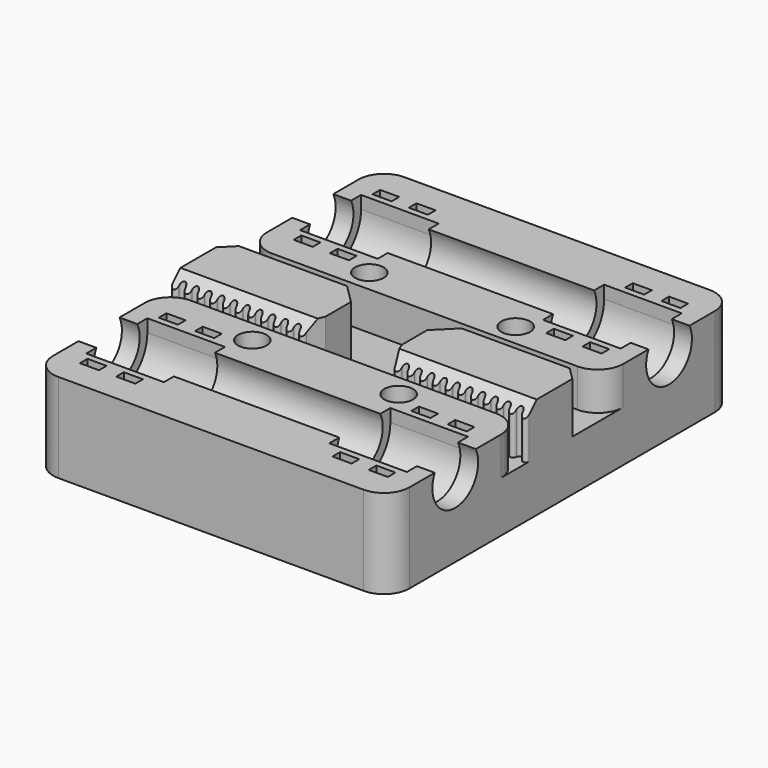
from build123d import *

# Parameters (mm, degrees)
BOX_W           = 28
BOX_H           = 34
BOX_DEPTH       = 16
POCKET_DEPTH    = 15
PAD_DEPTH       = 2.8
SKETCH002_R     = 4.5
POCKET001_DEPTH = 28.001
SKETCH003_W     = 3
SKETCH003_H     = 1.5
POCKET002_DEPTH = 16.001
SKETCH004_W     = 3
SKETCH004_H     = 17
POCKET005_DEPTH = 2
SKETCH005_R     = 2.25
POCKET006_DEPTH = 16.001
SKETCH006_W     = 28
SKETCH006_H     = 30
POCKET007_DEPTH = 2
SKETCH007_W     = 28
SKETCH007_H     = 4
POCKET008_DEPTH = 6
SKETCH008_W     = 6
SKETCH008_H     = 4
POCKET009_DEPTH = 8
PAD001_DEPTH    = 8
POCKET010_DEPTH = 28.001
FILLET_R        = 4
FILLET001_R     = 4
FILLET002_R     = 4
FILLET003_R     = 4
FILLET004_R     = 3
FILLET005_R     = 3
FILLET006_R     = 3
FILLET007_R     = 3
FILLET008_R     = 3
FILLET009_R     = 3
FILLET010_R     = 3
FILLET011_R     = 3
CHAMFER_SIZE    = 2
CHAMFER001_SIZE = 3


with BuildPart() as pocket009:
    # Box → Box (new body)
    with BuildSketch(Plane.XY):
        with Locations((14, 17)):
            Rectangle(BOX_W, BOX_H)
    extrude(amount=BOX_DEPTH)

    # Sketch → Pocket (cut)
    with BuildSketch(Plane.YZ.offset(28)):
        with BuildLine():
            Line((15, 16), (27, 16))
            Line((27, 16), (27, 12))
            ThreePointArc((15, 12), (21, 6), (27, 12))
            Line((15, 12), (15, 16))
        make_face()
    extrude(amount=-POCKET_DEPTH, mode=Mode.SUBTRACT)

    # Sketch001 → Pad (new body)
    with BuildSketch(Plane.YZ.offset(28)):
        with BuildLine():
            ThreePointArc((15, 12), (21, 6), (27, 12))
            Line((27, 16), (27, 12))
            Line((15, 16), (27, 16))
            Line((15, 12), (15, 16))
        make_face()
    extrude(amount=-PAD_DEPTH)

    # Sketch002 → Pocket001 (cut, through all)
    with BuildSketch(Plane.YZ.offset(28)):
        with Locations((21, 12)):
            Circle(SKETCH002_R)
    extrude(amount=-POCKET001_DEPTH, mode=Mode.SUBTRACT)

    # Sketch003 → Pocket002 (cut, through all)
    with BuildSketch(Plane.XY.offset(16)):
        with Locations((17, 28.75)):
            Rectangle(SKETCH003_W, SKETCH003_H)
        with Locations((22.7, 28.75)):
            Rectangle(SKETCH003_W, SKETCH003_H)
        with Locations((17, 13.25)):
            Rectangle(SKETCH003_W, SKETCH003_H)
        with Locations((22.7, 13.25)):
            Rectangle(SKETCH003_W, SKETCH003_H)
    extrude(amount=-POCKET002_DEPTH, mode=Mode.SUBTRACT)

    # Sketch004 → Pocket005 (cut)
    with BuildSketch(Plane(origin=(0, 0, 0), x_dir=(1, 0, 0), z_dir=(0, 0, -1))):
        with Locations((17, -21)):
            Rectangle(SKETCH004_W, SKETCH004_H)
        with Locations((22.7, -21)):
            Rectangle(SKETCH004_W, SKETCH004_H)
    extrude(amount=-POCKET005_DEPTH, mode=Mode.SUBTRACT)

    # Sketch005 → Pocket006 (cut, through all)
    with BuildSketch(Plane.XY.offset(16)):
        with Locations((11.5, 11.5)):
            Circle(SKETCH005_R)
    extrude(amount=-POCKET006_DEPTH, mode=Mode.SUBTRACT)

    # Sketch006 → Pocket007 (cut)
    with BuildSketch(Plane.XY.offset(16)):
        with Locations((14, 19)):
            Rectangle(SKETCH006_W, SKETCH006_H)
    extrude(amount=-POCKET007_DEPTH, mode=Mode.SUBTRACT)

    # Sketch007 → Pocket008 (cut)
    with BuildSketch(Plane.XY.offset(14)):
        with Locations((14, 6)):
            Rectangle(SKETCH007_W, SKETCH007_H)
    extrude(amount=-POCKET008_DEPTH, mode=Mode.SUBTRACT)

    # Sketch008 → Pocket009 (cut)
    with BuildSketch(Plane.XY.offset(16)):
        with Locations((3, 2)):
            Rectangle(SKETCH008_W, SKETCH008_H)
    extrude(amount=-POCKET009_DEPTH, mode=Mode.SUBTRACT)


with BuildPart() as chamfer001:
    # Part__Mirroring: instance of Pocket009
    add(pocket009.part.mirror(Plane(origin=(0, 0, 0), x_dir=(1, 0, 0), z_dir=(0, 1, 0))))

    # Sketch009 → Pad001 (new body)
    with BuildSketch(Plane.XY.offset(8)):
        with BuildLine():
            ThreePointArc((7, -6.5), (7.5, -7), (8, -6.5))
            ThreePointArc((9, -6.5), (8.5, -6), (8, -6.5))
            ThreePointArc((9, -6.5), (9.5, -7), (10, -6.5))
            ThreePointArc((11, -6.5), (10.5, -6), (10, -6.5))
            ThreePointArc((11, -6.5), (11.5, -7), (12, -6.5))
            ThreePointArc((13, -6.5), (12.5, -6), (12, -6.5))
            ThreePointArc((13, -6.5), (13.5, -7), (14, -6.5))
            ThreePointArc((15, -6.5), (14.5, -6), (14, -6.5))
            ThreePointArc((15, -6.5), (15.5, -7), (16, -6.5))
            ThreePointArc((17, -6.5), (16.5, -6), (16, -6.5))
            ThreePointArc((17, -6.5), (17.5, -7), (18, -6.5))
            ThreePointArc((19, -6.5), (18.5, -6), (18, -6.5))
            ThreePointArc((19, -6.5), (19.5, -7), (20, -6.5))
            ThreePointArc((21, -6.5), (20.5, -6), (20, -6.5))
            ThreePointArc((21, -6.5), (21.5, -7), (22, -6.5))
            ThreePointArc((23, -6.5), (22.5, -6), (22, -6.5))
            ThreePointArc((23, -6.5), (23.5, -7), (24, -6.5))
            ThreePointArc((25, -6.5), (24.5, -6), (24, -6.5))
            ThreePointArc((25, -6.5), (25.5, -7), (26, -6.5))
            ThreePointArc((27, -6.5), (26.5, -6), (26, -6.5))
            ThreePointArc((27, -6.5), (27.5, -7), (28, -6.5))
            Line((28, -6.5), (28, -4))
            Line((6, -4), (28, -4))
            Line((6, -4), (7, -6.5))
        make_face()
    extrude(amount=PAD001_DEPTH)

    # Sketch010 → Pocket010 (cut, through all)
    with BuildSketch(Plane.YZ.offset(28)):
        Polygon((-7, 14), (-7, 16), (-5, 16), align=None)
    extrude(amount=-POCKET010_DEPTH, mode=Mode.SUBTRACT)

    # Fusion: union Pocket009
    add(pocket009.part)

    # Fillet
    fillet_edges = [chamfer001.edges().sort_by_distance(p)[0] for p in [
        (28, 8, 11),
    ]]
    fillet(fillet_edges, radius=FILLET_R)

    # Fillet001
    fillet001_edges = [chamfer001.edges().sort_by_distance(p)[0] for p in [
        (28, -8, 11),
    ]]
    fillet(fillet001_edges, radius=FILLET001_R)

    # Fillet002
    fillet002_edges = [chamfer001.edges().sort_by_distance(p)[0] for p in [
        (28, 34, 7),
    ]]
    fillet(fillet002_edges, radius=FILLET002_R)

    # Fillet003
    fillet003_edges = [chamfer001.edges().sort_by_distance(p)[0] for p in [
        (28, -34, 7),
    ]]
    fillet(fillet003_edges, radius=FILLET003_R)

    # Fillet004
    fillet004_edges = [chamfer001.edges().sort_by_distance(p)[0] for p in [
        (17, 28, 2),
    ]]
    fillet(fillet004_edges, radius=FILLET004_R)

    # Fillet005
    fillet005_edges = [chamfer001.edges().sort_by_distance(p)[0] for p in [
        (22.7, 28, 2),
    ]]
    fillet(fillet005_edges, radius=FILLET005_R)

    # Fillet006
    fillet006_edges = [chamfer001.edges().sort_by_distance(p)[0] for p in [
        (22.7, 14, 2),
    ]]
    fillet(fillet006_edges, radius=FILLET006_R)

    # Fillet007
    fillet007_edges = [chamfer001.edges().sort_by_distance(p)[0] for p in [
        (17, 14, 2),
    ]]
    fillet(fillet007_edges, radius=FILLET007_R)

    # Fillet008
    fillet008_edges = [chamfer001.edges().sort_by_distance(p)[0] for p in [
        (22.7, -14, 2),
    ]]
    fillet(fillet008_edges, radius=FILLET008_R)

    # Fillet009
    fillet009_edges = [chamfer001.edges().sort_by_distance(p)[0] for p in [
        (17, -14, 2),
    ]]
    fillet(fillet009_edges, radius=FILLET009_R)

    # Fillet010
    fillet010_edges = [chamfer001.edges().sort_by_distance(p)[0] for p in [
        (22.7, -28, 2),
    ]]
    fillet(fillet010_edges, radius=FILLET010_R)

    # Fillet011
    fillet011_edges = [chamfer001.edges().sort_by_distance(p)[0] for p in [
        (17, -28, 2),
    ]]
    fillet(fillet011_edges, radius=FILLET011_R)

    # Chamfer
    chamfer_edges = [chamfer001.edges().sort_by_distance(p)[0] for p in [
        (28, 4, 11),
    ]]
    chamfer(chamfer_edges, length=CHAMFER_SIZE)

    # Chamfer001
    chamfer001_edges = [chamfer001.edges().sort_by_distance(p)[0] for p in [
        (6, 4, 11),
    ]]
    chamfer(chamfer001_edges, length=CHAMFER001_SIZE)


with BuildPart() as fusion001:
    # Part__Mirroring001: instance of Chamfer001
    add(chamfer001.part.mirror(Plane(origin=(0, 0, 0), x_dir=(0, -1, 0), z_dir=(1, 0, 0))))

    # Fusion001: union Chamfer001
    add(chamfer001.part)


solid = fusion001.part
